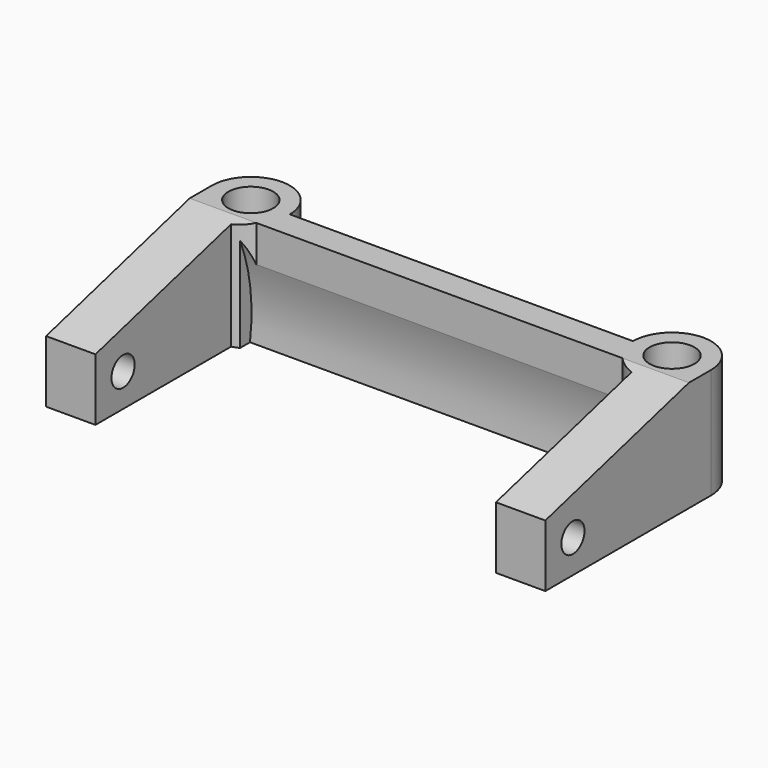
from build123d import *

# Parameters (mm, degrees)
F0_R          = 1.625
F1_DEPTH      = 8
F3_R          = 1.05
F4_DEPTH      = 18.076
F4_DEPTH_BACK = 18.076


with BuildPart() as f1:
    # F0 (on Top) → F1 (new body)
    with BuildSketch(Plane.XY):
        with BuildLine():
            Line((14.5, -15), (18.075, -15))
            Line((18.075, -15), (18.075, 0))
            ThreePointArc((18.075, 0), (16.9619981016, -2.247150974), (14.5, -2.7236235056))
            Line((14.5, -2.7236235056), (14.5, -15))
        make_face()
        with BuildLine():
            ThreePointArc((14.5, -2.7236235056), (16.9619981016, -2.247150974), (18.075, 0))
            ThreePointArc((18.075, 0), (15.25, 2.825), (12.425, 0))
            ThreePointArc((12.425, 0), (12.6406969517, -1.0826645843), (13.2548496297, -2))
            ThreePointArc((13.2548496297, -2), (13.8305386996, -2.4424894302), (14.5, -2.7236235056))
        make_face()
        with Locations((15.25, 0)):
            Circle(F0_R, mode=Mode.SUBTRACT)
        with BuildLine():
            ThreePointArc((13.2548496297, -2), (12.6406969517, -1.0826645843), (12.425, 0))
            Line((12.425, 0), (0, 0))
            Line((0, 0), (-12.425, 0))
            ThreePointArc((-12.425, 0), (-12.6406969517, -1.0826645843), (-13.2548496297, -2))
            Line((-13.2548496297, -2), (0, -2))
            Line((0, -2), (13.2548496297, -2))
        make_face()
        with BuildLine():
            ThreePointArc((-13.2548496297, -2), (-12.6406969517, -1.0826645843), (-12.425, 0))
            ThreePointArc((-12.425, 0), (-15.25, 2.825), (-18.075, 0))
            ThreePointArc((-18.075, 0), (-16.9619981016, -2.247150974), (-14.5, -2.7236235056))
            ThreePointArc((-14.5, -2.7236235056), (-13.8305386996, -2.4424894302), (-13.2548496297, -2))
        make_face()
        with Locations((-15.25, 0)):
            Circle(F0_R, mode=Mode.SUBTRACT)
        with BuildLine():
            ThreePointArc((-14.5, -2.7236235056), (-16.9619981016, -2.247150974), (-18.075, 0))
            Line((-18.075, 0), (-18.075, -15))
            Line((-18.075, -15), (-14.5, -15))
            Line((-14.5, -15), (-14.5, -2.7236235056))
        make_face()
    extrude(amount=F1_DEPTH)

    # F3 (on Right) → F4 (cut, two sides)
    with BuildSketch(Plane.YZ) as f4_sk:
        with Locations((-12.5, 2.4)):
            Circle(F3_R)
        Polygon((-15, 8), (-15, 4.5), (-2, 8), align=None)
    extrude(amount=-F4_DEPTH, mode=Mode.SUBTRACT)
    extrude(f4_sk.sketch, amount=F4_DEPTH_BACK, mode=Mode.SUBTRACT)

    # F7 (on offset) → F8 (revolve, cut)
    with BuildSketch(Plane.XY.offset(1.85)):
        Polygon((14, -1.5), (0, -1.5), (-14, -1.5), (-14, -4.7194751813), (0, -4.7194751813), (14, -4.7194751813), align=None)
    revolve(axis=Axis((3.4951923881, -14, 1.85), (1, 0, 0)), mode=Mode.SUBTRACT)


solid = f1.part
